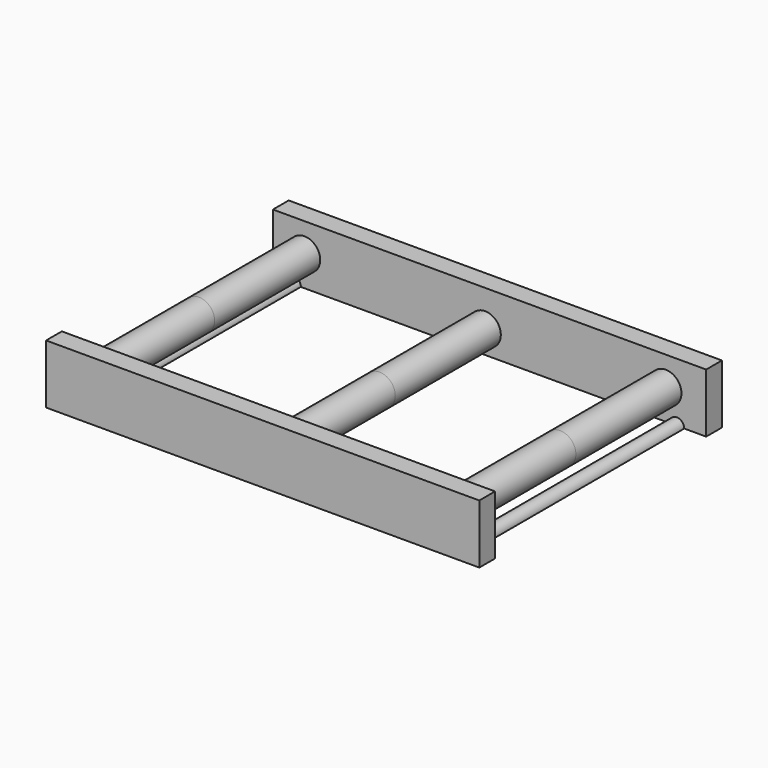
from build123d import *

# Parameters (mm, degrees)
F0_W     = 110
F0_H     = 15
F1_DEPTH = 5
F2_R     = 4
F3_DEPTH = 33.5


with BuildPart() as f1:
    # F0 (on Front) → F1 (new body)
    with BuildSketch(Plane.XZ):
        with Locations((1.137998, 4.555882)):
            Rectangle(F0_W, F0_H)
    extrude(amount=F1_DEPTH)

    # F2 (on face) → F3 (join)
    with BuildSketch(Plane.XZ.offset(5)):
        with Locations((0, 2.855882)):
            Circle(F2_R)
        with BuildLine():
            Line((-48.680253, -2.944118), (-46.780253, -2.944118))
            ThreePointArc((-46.780253, -2.944118), (-48.680253, -1.044118), (-50.580253, -2.944118))
            Line((-50.580253, -2.944118), (-48.680253, -2.944118))
        make_face()
        with Locations((-45.862002, 4.686209)):
            Circle(F2_R)
        with Locations((45.862002, 4.686209)):
            Circle(F2_R)
        with BuildLine():
            ThreePointArc((50.580253, -2.944118), (48.680253, -1.044118), (46.780253, -2.944118))
            Line((46.780253, -2.944118), (50.580253, -2.944118))
        make_face()
    extrude(amount=F3_DEPTH)

    # F4: F1 across face


with BuildPart() as f1_1:
    add(f1.part)
    add(f1.part.mirror(Plane(origin=(-45.862002, -38.5, 4.686209), x_dir=(1, 0, 0), z_dir=(0, -1, 0))))


solid = f1_1.part
